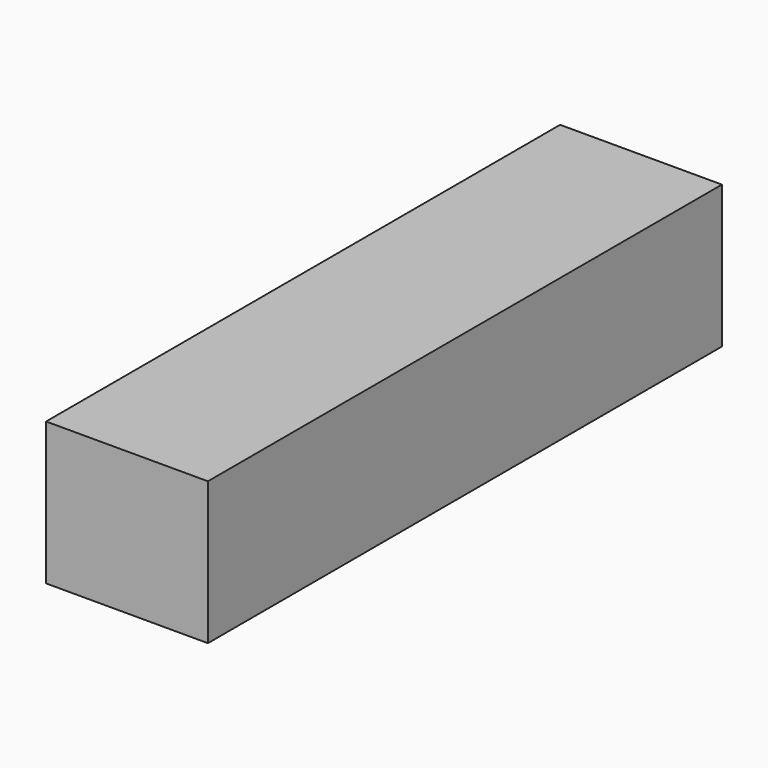
from build123d import *

# Parameters (mm, degrees)
BOX_W     = 40.3
BOX_H     = 160
BOX_DEPTH = 35.5


with BuildPart() as part:
    # Box → Box (join)
    with BuildSketch(Plane(origin=(-20.15, -80, 0), x_dir=(1, 0, 0), z_dir=(0, 0, 1))):
        with Locations((20.15, 80)):
            Rectangle(BOX_W, BOX_H)
    extrude(amount=BOX_DEPTH)


solid = part.part
